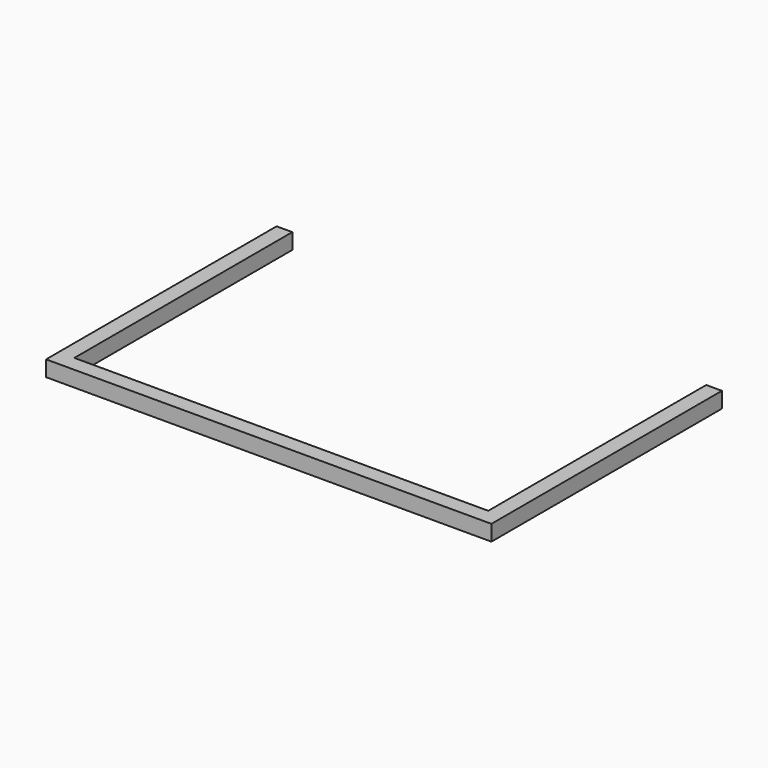
from build123d import *

# Parameters (mm, degrees)
F0_W          = 30
F0_H          = 30
F1_DEPTH      = 275
F2_W          = 30
F2_H          = 30
F3_DEPTH      = 820
F4_W          = 30
F4_H          = 30
F5_DEPTH      = 520
F5_DEPTH_BACK = 25


with BuildPart() as f1:
    # F0 (on Front) → F1 (new body, symmetric)
    with BuildSketch(Plane.XZ):
        Rectangle(F0_W, F0_H)
    extrude(amount=F1_DEPTH, both=True)

    # F2 (on face) → F3 (join)
    with BuildSketch(Plane.YZ.offset(15)):
        with Locations((-260, 0)):
            Rectangle(F2_W, F2_H)
    extrude(amount=F3_DEPTH)

    # F4 (on face) → F5 (join, two sides)
    with BuildSketch(Plane(origin=(0, -245, 0), x_dir=(-1, 0, 0), z_dir=(0, 1, 0))) as f5_sk:
        with Locations((-820, 0)):
            Rectangle(F4_W, F4_H)
    extrude(amount=F5_DEPTH)
    extrude(f5_sk.sketch, amount=-F5_DEPTH_BACK)


solid = f1.part
